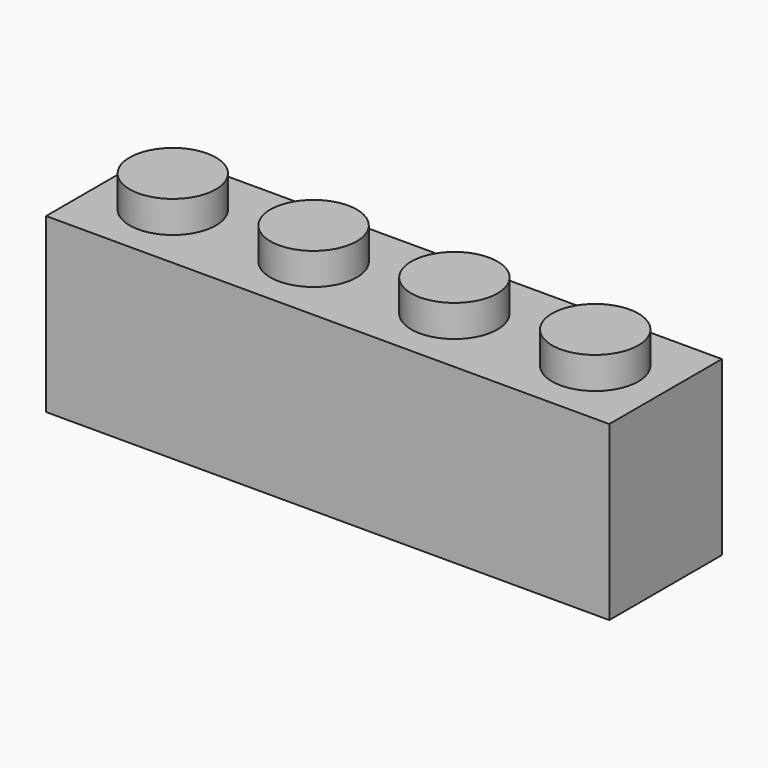
from build123d import *

# Parameters (mm, degrees)
F1_DEPTH  = 9.652
F2_R      = 2.413
F3_DEPTH  = 1.778
F4_DEPTH  = 1.778
F5_DEPTH  = 1.778
F6_DEPTH  = 1.778
F7_T      = -1.778
F8_R      = 1.4417359586
F9_DEPTH  = 7.87157
F8_R_2    = 1.507368722
F10_DEPTH = 7.88241
F8_R_3    = 1.5366007798
F11_DEPTH = 7.85389


with BuildPart() as f1:
    # F0 (on Top) → F1 (new body)
    with BuildSketch(Plane.XY):
        Polygon((-7.874, 0), (0, 0), (23.622, 0), (23.622, 7.874), (-7.874, 7.874), align=None)
    extrude(amount=F1_DEPTH)

    # F2 (on face) → F3 (join)
    with BuildSketch(Plane.XY.offset(9.652)):
        with Locations((19.685, 3.937)):
            Circle(F2_R)
    extrude(amount=F3_DEPTH)

    # F2 (on face) → F4 (join)
    with BuildSketch(Plane.XY.offset(9.652)):
        with Locations((11.811, 3.937)):
            Circle(F2_R)
    extrude(amount=F4_DEPTH)

    # F2 (on face) → F5 (join)
    with BuildSketch(Plane.XY.offset(9.652)):
        with Locations((3.937, 3.937)):
            Circle(F2_R)
    extrude(amount=F5_DEPTH)

    # F2 (on face) → F6 (join)
    with BuildSketch(Plane.XY.offset(9.652)):
        with Locations((-3.937, 3.937)):
            Circle(F2_R)
    extrude(amount=F6_DEPTH)

    # F7
    f7_openings = [f1.faces().sort_by_distance(p)[0] for p in [
        (7.874, 3.937, 0),
    ]]
    offset(amount=F7_T, openings=f7_openings, kind=Kind.INTERSECTION)

    # F8 (on face) → F9 (join)
    with BuildSketch(Plane(origin=(0, 0, 7.874), x_dir=(1, 0, 0), z_dir=(0, 0, -1))):
        with Locations((15.8983748406, -4.0523083881)):
            Circle(F8_R)
    extrude(amount=F9_DEPTH)

    # F8 (on face) → F10 (join)
    with BuildSketch(Plane(origin=(0, 0, 7.874), x_dir=(1, 0, 0), z_dir=(0, 0, -1))):
        with Locations((8.1644477323, -4.0523083881)):
            Circle(F8_R_2)
    extrude(amount=F10_DEPTH)

    # F8 (on face) → F11 (join)
    with BuildSketch(Plane(origin=(0, 0, 7.874), x_dir=(1, 0, 0), z_dir=(0, 0, -1))):
        with Locations((0, -4.0523083881)):
            Circle(F8_R_3)
    extrude(amount=F11_DEPTH)


solid = f1.part
